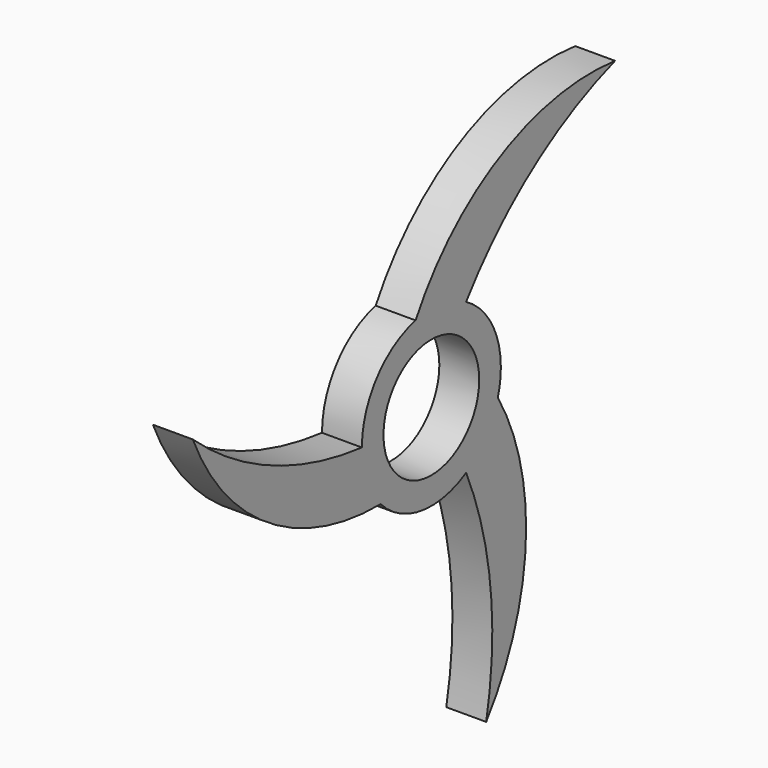
from build123d import *

# Parameters (mm, degrees)
F1_DEPTH = 7
F2_DEPTH = 7
F3_DEPTH = 7
F0_R     = 10.5
F4_DEPTH = 7


with BuildPart() as f1:
    # F0 (on Right) → F1 (new body)
    with BuildSketch(Plane.YZ):
        with BuildLine():
            ThreePointArc((14.589096, -4.427731), (11.941496, -9.478775), (7.623098, -13.203594))
            ThreePointArc((7.623098, -13.203594), (12.978421, -33.004131), (12.030362, -53.494177))
            ThreePointArc((12.030362, -53.494177), (20.732247, -29.348026), (14.589096, -4.427731))
        make_face()
    extrude(amount=F1_DEPTH)



with BuildPart() as f2:
    # F0 (on Right) → F2 (new body)
    with BuildSketch(Plane.YZ):
        with BuildLine():
            ThreePointArc((-15.246197, 0), (-35.071627, 5.262423), (-52.342497, 16.328489))
            ThreePointArc((-52.342497, 16.328489), (-35.78226, -3.28064), (-11.129076, -10.420662))
            ThreePointArc((-11.129076, -10.420662), (-14.179608, -5.602251), (-15.246197, 0))
        make_face()
    extrude(amount=F2_DEPTH)


with BuildPart() as f3:
    # F0 (on Right) → F3 (new body)
    with BuildSketch(Plane.YZ):
        with BuildLine():
            ThreePointArc((40.312135, 37.165687), (15.050012, 32.628666), (-3.46002, 14.848393))
            ThreePointArc((-3.46002, 14.848393), (2.238112, 15.081027), (7.623098, 13.203594))
            ThreePointArc((7.623098, 13.203594), (22.093206, 27.741708), (40.312135, 37.165687))
        make_face()
    extrude(amount=F3_DEPTH)


with BuildPart() as f1_1:
    add(f1.part)

    add(f2.part)  # F4 merges F2

    add(f3.part)  # F4 merges F3
    # F0 (on Right) → F4 (join)
    with BuildSketch(Plane.YZ):
        with BuildLine():
            ThreePointArc((-3.46002, 14.848393), (-11.941496, 9.478775), (-15.246197, 0))
            ThreePointArc((-15.246197, 0), (-14.179608, -5.602251), (-11.129076, -10.420662))
            ThreePointArc((-11.129076, -10.420662), (-2.238112, -15.081027), (7.623098, -13.203594))
            ThreePointArc((7.623098, -13.203594), (11.941496, -9.478775), (14.589096, -4.427731))
            ThreePointArc((14.589096, -4.427731), (15.081027, -2.238112), (15.246197, 0))
            ThreePointArc((15.246197, 0), (13.203594, 7.623098), (7.623098, 13.203594))
            ThreePointArc((7.623098, 13.203594), (2.238112, 15.081027), (-3.46002, 14.848393))
        make_face()
        Circle(F0_R, mode=Mode.SUBTRACT)
    extrude(amount=F4_DEPTH)


solid = f1_1.part
